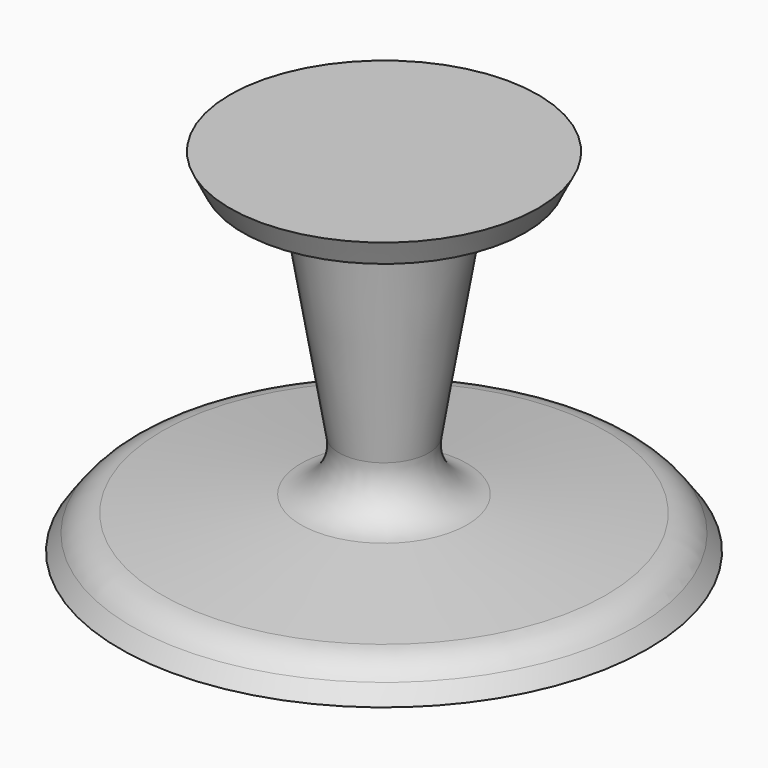
from build123d import *


with BuildPart() as f1:
    # F0 (on Front) → F1 (revolve)
    with BuildSketch(Plane.XZ):
        with BuildLine():
            Line((22.225, 0), (0, 0))
            Line((0, 0), (0, -50.8))
            Line((0, -50.8), (38.1, -50.8))
            Line((38.1, -50.8), (36.419185, -48.497742))
            ThreePointArc((36.419185, -48.497742), (34.499448, -46.762466), (32.046792, -45.937208))
            Line((32.046792, -45.937208), (11.993029, -43.53182))
            ThreePointArc((11.993029, -43.53182), (7.66672, -41.033607), (6.486308, -36.179264))
            Line((6.486308, -36.179264), (11.926601, -3.659647))
            Line((11.926601, -3.659647), (20.407502, -3.659647))
            Line((20.407502, -3.659647), (22.225, 0))
        make_face()
    revolve(axis=Axis((0, 0, -25.4), (0, 0, -1)))


solid = f1.part
